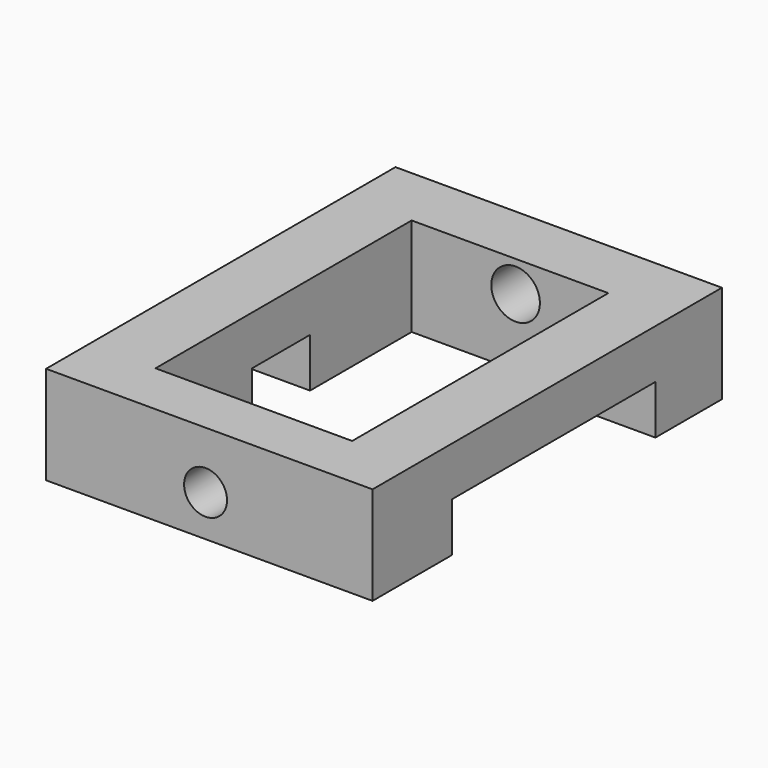
from build123d import *

# Parameters (mm, degrees)
F0_W      = 84.451213479
F0_H      = 112.9794791341
F1_DEPTH  = 25.4
F2_W      = 50.8853495121
F2_H      = 82.8240290284
F3_DEPTH  = 25.4
F4_R      = 6.2891485283
F5_DEPTH  = 25.4
F6_R      = 5.5560325186
F7_DEPTH  = 25.4
F8_W      = 17.1270668507
F8_H      = 18.73687841
F9_DEPTH  = 12.7
F10_W     = 16.4387971163
F10_H     = 65.7989624888
F11_DEPTH = 12.7


with BuildPart() as f1:
    # F0 (on Top) → F1 (new body)
    with BuildSketch(Plane.XY):
        with Locations((3.9865151048, 3.3602751791)):
            Rectangle(F0_W, F0_H)
        with Locations((3.9865151048, 3.3602751791)):
            Rectangle(F0_W, F0_H)
    extrude(amount=F1_DEPTH)

    # F2 (on face) → F3 (cut)
    with BuildSketch(Plane.XY.offset(25.4)):
        with Locations((4.330649972, 2.2555477917)):
            Rectangle(F2_W, F2_H)
    extrude(amount=-F3_DEPTH, mode=Mode.SUBTRACT)

    # F4 (on face) → F5 (cut)
    with BuildSketch(Plane(origin=(0, 59.8500147462, 0), x_dir=(-1, 0, 0), z_dir=(0, 1, 0))):
        with Locations((-5.7790102437, 17.3808317631)):
            Circle(F4_R)
        with Locations((-5.7790102437, 17.3808317631)):
            Circle(F4_R)
    extrude(amount=-F5_DEPTH, mode=Mode.SUBTRACT)

    # F6 (on face) → F7 (cut)
    with BuildSketch(Plane.XZ.offset(53.1294643879)):
        with Locations((3.0174842104, 10.6666553766)):
            Circle(F6_R)
        with Locations((3.0174842104, 10.6666553766)):
            Circle(F6_R)
    extrude(amount=-F7_DEPTH, mode=Mode.SUBTRACT)

    # F8 (on face) → F9 (cut)
    with BuildSketch(Plane(origin=(0, 0, 0), x_dir=(1, 0, 0), z_dir=(0, 0, -1))):
        with Locations((-29.6755582094, -1.4471039176)):
            Rectangle(F8_W, F8_H)
    extrude(amount=-F9_DEPTH, mode=Mode.SUBTRACT)

    # F10 (on face) → F11 (cut)
    with BuildSketch(Plane(origin=(0, 0, 0), x_dir=(1, 0, 0), z_dir=(0, 0, -1))):
        with Locations((37.9927232862, -5.4467311129)):
            Rectangle(F10_W, F10_H)
        with Locations((37.9927232862, -5.4467311129)):
            Rectangle(F10_W, F10_H)
    extrude(amount=-F11_DEPTH, mode=Mode.SUBTRACT)


solid = f1.part
